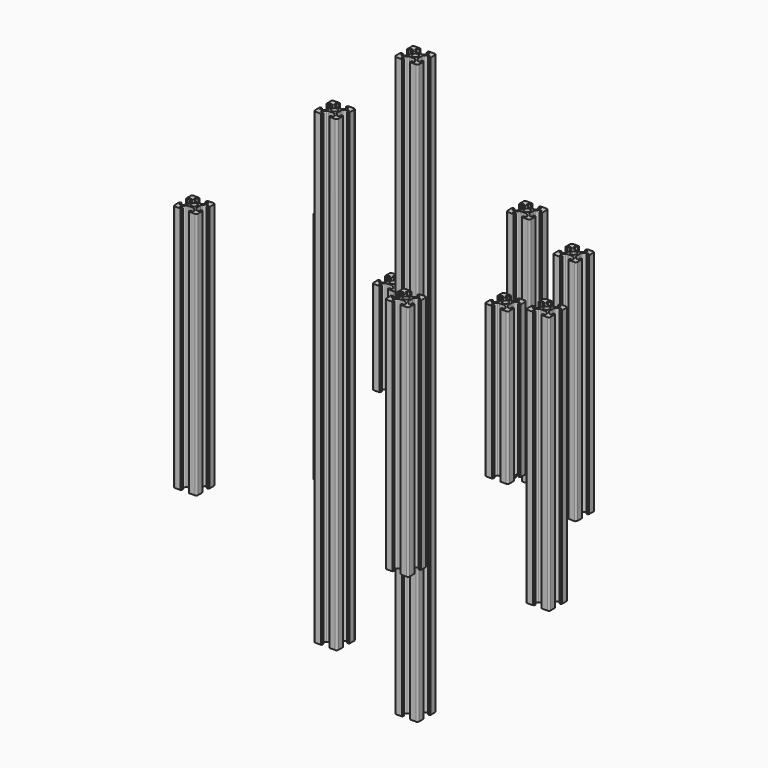
from build123d import *

# Parameters (mm, degrees)
F0_R      = 2.5
F1_DEPTH  = 247.5
F2_R      = 2.5
F3_DEPTH  = 100
F4_R      = 2.5
F5_DEPTH  = 65
F6_R      = 2.5
F7_DEPTH  = 200
F8_R      = 2.5
F9_DEPTH  = 40
F10_R     = 2.5
F11_DEPTH = 110.5
F12_R     = 2.5
F13_DEPTH = 101.5
F14_R     = 2.5
F15_DEPTH = 97.5
F16_R     = 2.5
F17_DEPTH = 106
F18_R     = 2.5
F19_DEPTH = 99.5


with BuildPart() as f1:
    # F0 (on Top) → F1 (new body, symmetric)
    with BuildSketch(Plane.XY):
        with BuildLine():
            Line((-4.724786, -6.718866), (-1.724786, -6.718866))
            ThreePointArc((-1.724786, -6.718866), (-0.664126, -6.279526), (-0.224786, -5.218866))
            Line((-0.224786, -5.218866), (-0.224786, -2.218866))
            Line((-0.224786, -2.218866), (-0.224786, -0.318866))
            Line((-0.224786, -0.318866), (-0.524786, -0.318866))
            ThreePointArc((-0.524786, -0.318866), (-0.666208, -0.260287), (-0.724786, -0.118866))
            Line((-0.724786, -0.118866), (-0.724786, 0.181134))
            Line((-0.724786, 0.181134), (-2.024786, 0.181134))
            Line((-2.024786, 0.181134), (-2.024786, -2.218866))
            Line((-2.024786, -2.218866), (-3.664126, -2.218866))
            Line((-3.664126, -2.218866), (-5.739, -0.143992))
            ThreePointArc((-5.739, -0.143992), (-6.172545, 0.504855), (-6.324786, 1.270222))
            Line((-6.324786, 1.270222), (-6.324786, 5.292047))
            ThreePointArc((-6.324786, 5.292047), (-6.172545, 6.057414), (-5.739, 6.706261))
            Line((-5.739, 6.706261), (-3.664126, 8.781134))
            Line((-3.664126, 8.781134), (-2.024786, 8.781134))
            Line((-2.024786, 8.781134), (-2.024786, 6.381134))
            Line((-2.024786, 6.381134), (-0.724786, 6.381134))
            Line((-0.724786, 6.381134), (-0.724786, 6.681134))
            ThreePointArc((-0.724786, 6.681134), (-0.666208, 6.822556), (-0.524786, 6.881134))
            Line((-0.524786, 6.881134), (-0.224786, 6.881134))
            Line((-0.224786, 6.881134), (-0.224786, 8.781134))
            Line((-0.224786, 8.781134), (-0.224786, 11.781134))
            ThreePointArc((-0.224786, 11.781134), (-0.664126, 12.841794), (-1.724786, 13.281134))
            Line((-1.724786, 13.281134), (-4.724786, 13.281134))
            Line((-4.724786, 13.281134), (-6.124786, 13.281134))
            Line((-6.124786, 13.281134), (-6.624786, 13.281134))
            Line((-6.624786, 13.281134), (-6.624786, 12.981134))
            ThreePointArc((-6.624786, 12.981134), (-6.683365, 12.839713), (-6.824786, 12.781134))
            Line((-6.824786, 12.781134), (-7.124786, 12.781134))
            Line((-7.124786, 12.781134), (-7.124786, 11.481134))
            Line((-7.124786, 11.481134), (-4.724786, 11.481134))
            Line((-4.724786, 11.481134), (-4.724786, 9.841794))
            Line((-4.724786, 9.841794), (-6.79966, 7.766921))
            ThreePointArc((-6.79966, 7.766921), (-7.448507, 7.333375), (-8.213873, 7.181134))
            Line((-8.213873, 7.181134), (-12.235699, 7.181134))
            ThreePointArc((-12.235699, 7.181134), (-13.001066, 7.333375), (-13.649912, 7.766921))
            Line((-13.649912, 7.766921), (-15.724786, 9.841794))
            Line((-15.724786, 9.841794), (-15.724786, 11.481134))
            Line((-15.724786, 11.481134), (-13.324786, 11.481134))
            Line((-13.324786, 11.481134), (-13.324786, 12.781134))
            Line((-13.324786, 12.781134), (-13.624786, 12.781134))
            ThreePointArc((-13.624786, 12.781134), (-13.766208, 12.839713), (-13.824786, 12.981134))
            Line((-13.824786, 12.981134), (-13.824786, 13.281134))
            Line((-13.824786, 13.281134), (-14.324786, 13.281134))
            Line((-14.324786, 13.281134), (-15.724786, 13.281134))
            Line((-15.724786, 13.281134), (-18.724786, 13.281134))
            ThreePointArc((-18.724786, 13.281134), (-19.785446, 12.841794), (-20.224786, 11.781134))
            Line((-20.224786, 11.781134), (-20.224786, 8.781134))
            Line((-20.224786, 8.781134), (-20.224786, 6.881134))
            Line((-20.224786, 6.881134), (-19.924786, 6.881134))
            ThreePointArc((-19.924786, 6.881134), (-19.783365, 6.822556), (-19.724786, 6.681134))
            Line((-19.724786, 6.681134), (-19.724786, 6.381134))
            Line((-19.724786, 6.381134), (-18.424786, 6.381134))
            Line((-18.424786, 6.381134), (-18.424786, 8.781134))
            Line((-18.424786, 8.781134), (-16.785446, 8.781134))
            Line((-16.785446, 8.781134), (-14.710573, 6.706261))
            ThreePointArc((-14.710573, 6.706261), (-14.277027, 6.057414), (-14.124786, 5.292047))
            Line((-14.124786, 5.292047), (-14.124786, 1.270222))
            ThreePointArc((-14.124786, 1.270222), (-14.277027, 0.504855), (-14.710573, -0.143992))
            Line((-14.710573, -0.143992), (-16.785446, -2.218866))
            Line((-16.785446, -2.218866), (-18.424786, -2.218866))
            Line((-18.424786, -2.218866), (-18.424786, 0.181134))
            Line((-18.424786, 0.181134), (-19.724786, 0.181134))
            Line((-19.724786, 0.181134), (-19.724786, -0.118866))
            ThreePointArc((-19.724786, -0.118866), (-19.783365, -0.260287), (-19.924786, -0.318866))
            Line((-19.924786, -0.318866), (-20.224786, -0.318866))
            Line((-20.224786, -0.318866), (-20.224786, -2.218866))
            Line((-20.224786, -2.218866), (-20.224786, -5.218866))
            ThreePointArc((-20.224786, -5.218866), (-19.785446, -6.279526), (-18.724786, -6.718866))
            Line((-18.724786, -6.718866), (-15.724786, -6.718866))
            Line((-15.724786, -6.718866), (-14.324786, -6.718866))
            Line((-14.324786, -6.718866), (-13.824786, -6.718866))
            Line((-13.824786, -6.718866), (-13.824786, -6.418866))
            ThreePointArc((-13.824786, -6.418866), (-13.766208, -6.277444), (-13.624786, -6.218866))
            Line((-13.624786, -6.218866), (-13.324786, -6.218866))
            Line((-13.324786, -6.218866), (-13.324786, -4.918866))
            Line((-13.324786, -4.918866), (-15.724786, -4.918866))
            Line((-15.724786, -4.918866), (-15.724786, -3.279526))
            Line((-15.724786, -3.279526), (-13.649912, -1.204652))
            ThreePointArc((-13.649912, -1.204652), (-13.001066, -0.771107), (-12.235699, -0.618866))
            Line((-12.235699, -0.618866), (-8.213873, -0.618866))
            ThreePointArc((-8.213873, -0.618866), (-7.448507, -0.771107), (-6.79966, -1.204652))
            Line((-6.79966, -1.204652), (-4.724786, -3.279526))
            Line((-4.724786, -3.279526), (-4.724786, -4.918866))
            Line((-4.724786, -4.918866), (-7.124786, -4.918866))
            Line((-7.124786, -4.918866), (-7.124786, -6.218866))
            Line((-7.124786, -6.218866), (-6.824786, -6.218866))
            ThreePointArc((-6.824786, -6.218866), (-6.683365, -6.277444), (-6.624786, -6.418866))
            Line((-6.624786, -6.418866), (-6.624786, -6.718866))
            Line((-6.624786, -6.718866), (-6.124786, -6.718866))
            Line((-6.124786, -6.718866), (-4.724786, -6.718866))
        make_face()
        with Locations((-10.224786, 3.281134)):
            Circle(F0_R, mode=Mode.SUBTRACT)
    extrude(amount=F1_DEPTH, both=True)


with BuildPart() as f3:
    # F2 (on Top) → F3 (new body, symmetric)
    with BuildSketch(Plane.XY):
        with BuildLine():
            Line((-81.960408, 2.570584), (-78.960408, 2.570584))
            ThreePointArc((-78.960408, 2.570584), (-77.899748, 3.009924), (-77.460408, 4.070584))
            Line((-77.460408, 4.070584), (-77.460408, 7.070584))
            Line((-77.460408, 7.070584), (-77.460408, 8.970584))
            Line((-77.460408, 8.970584), (-77.760408, 8.970584))
            ThreePointArc((-77.760408, 8.970584), (-77.90183, 9.029163), (-77.960408, 9.170584))
            Line((-77.960408, 9.170584), (-77.960408, 9.470584))
            Line((-77.960408, 9.470584), (-79.260408, 9.470584))
            Line((-79.260408, 9.470584), (-79.260408, 7.070584))
            Line((-79.260408, 7.070584), (-80.899748, 7.070584))
            Line((-80.899748, 7.070584), (-82.974622, 9.145458))
            ThreePointArc((-82.974622, 9.145458), (-83.408168, 9.794305), (-83.560408, 10.559672))
            Line((-83.560408, 10.559672), (-83.560408, 14.581497))
            ThreePointArc((-83.560408, 14.581497), (-83.408168, 15.346864), (-82.974622, 15.995711))
            Line((-82.974622, 15.995711), (-80.899748, 18.070584))
            Line((-80.899748, 18.070584), (-79.260408, 18.070584))
            Line((-79.260408, 18.070584), (-79.260408, 15.670584))
            Line((-79.260408, 15.670584), (-77.960408, 15.670584))
            Line((-77.960408, 15.670584), (-77.960408, 15.970584))
            ThreePointArc((-77.960408, 15.970584), (-77.90183, 16.112006), (-77.760408, 16.170584))
            Line((-77.760408, 16.170584), (-77.460408, 16.170584))
            Line((-77.460408, 16.170584), (-77.460408, 18.070584))
            Line((-77.460408, 18.070584), (-77.460408, 21.070584))
            ThreePointArc((-77.460408, 21.070584), (-77.899748, 22.131244), (-78.960408, 22.570584))
            Line((-78.960408, 22.570584), (-81.960408, 22.570584))
            Line((-81.960408, 22.570584), (-83.360408, 22.570584))
            Line((-83.360408, 22.570584), (-83.860408, 22.570584))
            Line((-83.860408, 22.570584), (-83.860408, 22.270584))
            ThreePointArc((-83.860408, 22.270584), (-83.918987, 22.129163), (-84.060408, 22.070584))
            Line((-84.060408, 22.070584), (-84.360408, 22.070584))
            Line((-84.360408, 22.070584), (-84.360408, 20.770584))
            Line((-84.360408, 20.770584), (-81.960408, 20.770584))
            Line((-81.960408, 20.770584), (-81.960408, 19.131244))
            Line((-81.960408, 19.131244), (-84.035282, 17.056371))
            ThreePointArc((-84.035282, 17.056371), (-84.684129, 16.622825), (-85.449496, 16.470584))
            Line((-85.449496, 16.470584), (-89.471321, 16.470584))
            ThreePointArc((-89.471321, 16.470584), (-90.236688, 16.622825), (-90.885535, 17.056371))
            Line((-90.885535, 17.056371), (-92.960408, 19.131244))
            Line((-92.960408, 19.131244), (-92.960408, 20.770584))
            Line((-92.960408, 20.770584), (-90.560408, 20.770584))
            Line((-90.560408, 20.770584), (-90.560408, 22.070584))
            Line((-90.560408, 22.070584), (-90.860408, 22.070584))
            ThreePointArc((-90.860408, 22.070584), (-91.00183, 22.129163), (-91.060408, 22.270584))
            Line((-91.060408, 22.270584), (-91.060408, 22.570584))
            Line((-91.060408, 22.570584), (-91.560408, 22.570584))
            Line((-91.560408, 22.570584), (-92.960408, 22.570584))
            Line((-92.960408, 22.570584), (-95.960408, 22.570584))
            ThreePointArc((-95.960408, 22.570584), (-97.021069, 22.131244), (-97.460408, 21.070584))
            Line((-97.460408, 21.070584), (-97.460408, 18.070584))
            Line((-97.460408, 18.070584), (-97.460408, 16.170584))
            Line((-97.460408, 16.170584), (-97.160408, 16.170584))
            ThreePointArc((-97.160408, 16.170584), (-97.018987, 16.112006), (-96.960408, 15.970584))
            Line((-96.960408, 15.970584), (-96.960408, 15.670584))
            Line((-96.960408, 15.670584), (-95.660408, 15.670584))
            Line((-95.660408, 15.670584), (-95.660408, 18.070584))
            Line((-95.660408, 18.070584), (-94.021069, 18.070584))
            Line((-94.021069, 18.070584), (-91.946195, 15.995711))
            ThreePointArc((-91.946195, 15.995711), (-91.512649, 15.346864), (-91.360408, 14.581497))
            Line((-91.360408, 14.581497), (-91.360408, 10.559672))
            ThreePointArc((-91.360408, 10.559672), (-91.512649, 9.794305), (-91.946195, 9.145458))
            Line((-91.946195, 9.145458), (-94.021069, 7.070584))
            Line((-94.021069, 7.070584), (-95.660408, 7.070584))
            Line((-95.660408, 7.070584), (-95.660408, 9.470584))
            Line((-95.660408, 9.470584), (-96.960408, 9.470584))
            Line((-96.960408, 9.470584), (-96.960408, 9.170584))
            ThreePointArc((-96.960408, 9.170584), (-97.018987, 9.029163), (-97.160408, 8.970584))
            Line((-97.160408, 8.970584), (-97.460408, 8.970584))
            Line((-97.460408, 8.970584), (-97.460408, 7.070584))
            Line((-97.460408, 7.070584), (-97.460408, 4.070584))
            ThreePointArc((-97.460408, 4.070584), (-97.021069, 3.009924), (-95.960408, 2.570584))
            Line((-95.960408, 2.570584), (-92.960408, 2.570584))
            Line((-92.960408, 2.570584), (-91.560408, 2.570584))
            Line((-91.560408, 2.570584), (-91.060408, 2.570584))
            Line((-91.060408, 2.570584), (-91.060408, 2.870584))
            ThreePointArc((-91.060408, 2.870584), (-91.00183, 3.012006), (-90.860408, 3.070584))
            Line((-90.860408, 3.070584), (-90.560408, 3.070584))
            Line((-90.560408, 3.070584), (-90.560408, 4.370584))
            Line((-90.560408, 4.370584), (-92.960408, 4.370584))
            Line((-92.960408, 4.370584), (-92.960408, 6.009924))
            Line((-92.960408, 6.009924), (-90.885535, 8.084798))
            ThreePointArc((-90.885535, 8.084798), (-90.236688, 8.518343), (-89.471321, 8.670584))
            Line((-89.471321, 8.670584), (-85.449496, 8.670584))
            ThreePointArc((-85.449496, 8.670584), (-84.684129, 8.518343), (-84.035282, 8.084798))
            Line((-84.035282, 8.084798), (-81.960408, 6.009924))
            Line((-81.960408, 6.009924), (-81.960408, 4.370584))
            Line((-81.960408, 4.370584), (-84.360408, 4.370584))
            Line((-84.360408, 4.370584), (-84.360408, 3.070584))
            Line((-84.360408, 3.070584), (-84.060408, 3.070584))
            ThreePointArc((-84.060408, 3.070584), (-83.918987, 3.012006), (-83.860408, 2.870584))
            Line((-83.860408, 2.870584), (-83.860408, 2.570584))
            Line((-83.860408, 2.570584), (-83.360408, 2.570584))
            Line((-83.360408, 2.570584), (-81.960408, 2.570584))
        make_face()
        with Locations((-87.460408, 12.570584)):
            Circle(F2_R, mode=Mode.SUBTRACT)
    extrude(amount=F3_DEPTH, both=True)


with BuildPart() as f5:
    # F4 (on Top) → F5 (new body, symmetric)
    with BuildSketch(Plane.XY):
        with BuildLine():
            Line((46.328743, 25.884931), (49.328743, 25.884931))
            ThreePointArc((49.328743, 25.884931), (50.389404, 26.324271), (50.828743, 27.384931))
            Line((50.828743, 27.384931), (50.828743, 30.384931))
            Line((50.828743, 30.384931), (50.828743, 32.284931))
            Line((50.828743, 32.284931), (50.528743, 32.284931))
            ThreePointArc((50.528743, 32.284931), (50.387322, 32.343509), (50.328743, 32.484931))
            Line((50.328743, 32.484931), (50.328743, 32.784931))
            Line((50.328743, 32.784931), (49.028743, 32.784931))
            Line((49.028743, 32.784931), (49.028743, 30.384931))
            Line((49.028743, 30.384931), (47.389404, 30.384931))
            Line((47.389404, 30.384931), (45.31453, 32.459805))
            ThreePointArc((45.31453, 32.459805), (44.880984, 33.108651), (44.728743, 33.874018))
            Line((44.728743, 33.874018), (44.728743, 37.895844))
            ThreePointArc((44.728743, 37.895844), (44.880984, 38.66121), (45.31453, 39.310057))
            Line((45.31453, 39.310057), (47.389404, 41.384931))
            Line((47.389404, 41.384931), (49.028743, 41.384931))
            Line((49.028743, 41.384931), (49.028743, 38.984931))
            Line((49.028743, 38.984931), (50.328743, 38.984931))
            Line((50.328743, 38.984931), (50.328743, 39.284931))
            ThreePointArc((50.328743, 39.284931), (50.387322, 39.426352), (50.528743, 39.484931))
            Line((50.528743, 39.484931), (50.828743, 39.484931))
            Line((50.828743, 39.484931), (50.828743, 41.384931))
            Line((50.828743, 41.384931), (50.828743, 44.384931))
            ThreePointArc((50.828743, 44.384931), (50.389404, 45.445591), (49.328743, 45.884931))
            Line((49.328743, 45.884931), (46.328743, 45.884931))
            Line((46.328743, 45.884931), (44.928743, 45.884931))
            Line((44.928743, 45.884931), (44.428743, 45.884931))
            Line((44.428743, 45.884931), (44.428743, 45.584931))
            ThreePointArc((44.428743, 45.584931), (44.370165, 45.443509), (44.228743, 45.384931))
            Line((44.228743, 45.384931), (43.928743, 45.384931))
            Line((43.928743, 45.384931), (43.928743, 44.084931))
            Line((43.928743, 44.084931), (46.328743, 44.084931))
            Line((46.328743, 44.084931), (46.328743, 42.445591))
            Line((46.328743, 42.445591), (44.25387, 40.370717))
            ThreePointArc((44.25387, 40.370717), (43.605023, 39.937172), (42.839656, 39.784931))
            Line((42.839656, 39.784931), (38.817831, 39.784931))
            ThreePointArc((38.817831, 39.784931), (38.052464, 39.937172), (37.403617, 40.370717))
            Line((37.403617, 40.370717), (35.328743, 42.445591))
            Line((35.328743, 42.445591), (35.328743, 44.084931))
            Line((35.328743, 44.084931), (37.728743, 44.084931))
            Line((37.728743, 44.084931), (37.728743, 45.384931))
            Line((37.728743, 45.384931), (37.428743, 45.384931))
            ThreePointArc((37.428743, 45.384931), (37.287322, 45.443509), (37.228743, 45.584931))
            Line((37.228743, 45.584931), (37.228743, 45.884931))
            Line((37.228743, 45.884931), (36.728743, 45.884931))
            Line((36.728743, 45.884931), (35.328743, 45.884931))
            Line((35.328743, 45.884931), (32.328743, 45.884931))
            ThreePointArc((32.328743, 45.884931), (31.268083, 45.445591), (30.828743, 44.384931))
            Line((30.828743, 44.384931), (30.828743, 41.384931))
            Line((30.828743, 41.384931), (30.828743, 39.484931))
            Line((30.828743, 39.484931), (31.128743, 39.484931))
            ThreePointArc((31.128743, 39.484931), (31.270165, 39.426352), (31.328743, 39.284931))
            Line((31.328743, 39.284931), (31.328743, 38.984931))
            Line((31.328743, 38.984931), (32.628743, 38.984931))
            Line((32.628743, 38.984931), (32.628743, 41.384931))
            Line((32.628743, 41.384931), (34.268083, 41.384931))
            Line((34.268083, 41.384931), (36.342957, 39.310057))
            ThreePointArc((36.342957, 39.310057), (36.776503, 38.66121), (36.928743, 37.895844))
            Line((36.928743, 37.895844), (36.928743, 33.874018))
            ThreePointArc((36.928743, 33.874018), (36.776503, 33.108651), (36.342957, 32.459805))
            Line((36.342957, 32.459805), (34.268083, 30.384931))
            Line((34.268083, 30.384931), (32.628743, 30.384931))
            Line((32.628743, 30.384931), (32.628743, 32.784931))
            Line((32.628743, 32.784931), (31.328743, 32.784931))
            Line((31.328743, 32.784931), (31.328743, 32.484931))
            ThreePointArc((31.328743, 32.484931), (31.270165, 32.343509), (31.128743, 32.284931))
            Line((31.128743, 32.284931), (30.828743, 32.284931))
            Line((30.828743, 32.284931), (30.828743, 30.384931))
            Line((30.828743, 30.384931), (30.828743, 27.384931))
            ThreePointArc((30.828743, 27.384931), (31.268083, 26.324271), (32.328743, 25.884931))
            Line((32.328743, 25.884931), (35.328743, 25.884931))
            Line((35.328743, 25.884931), (36.728743, 25.884931))
            Line((36.728743, 25.884931), (37.228743, 25.884931))
            Line((37.228743, 25.884931), (37.228743, 26.184931))
            ThreePointArc((37.228743, 26.184931), (37.287322, 26.326352), (37.428743, 26.384931))
            Line((37.428743, 26.384931), (37.728743, 26.384931))
            Line((37.728743, 26.384931), (37.728743, 27.684931))
            Line((37.728743, 27.684931), (35.328743, 27.684931))
            Line((35.328743, 27.684931), (35.328743, 29.324271))
            Line((35.328743, 29.324271), (37.403617, 31.399144))
            ThreePointArc((37.403617, 31.399144), (38.052464, 31.83269), (38.817831, 31.984931))
            Line((38.817831, 31.984931), (42.839656, 31.984931))
            ThreePointArc((42.839656, 31.984931), (43.605023, 31.83269), (44.25387, 31.399144))
            Line((44.25387, 31.399144), (46.328743, 29.324271))
            Line((46.328743, 29.324271), (46.328743, 27.684931))
            Line((46.328743, 27.684931), (43.928743, 27.684931))
            Line((43.928743, 27.684931), (43.928743, 26.384931))
            Line((43.928743, 26.384931), (44.228743, 26.384931))
            ThreePointArc((44.228743, 26.384931), (44.370165, 26.326352), (44.428743, 26.184931))
            Line((44.428743, 26.184931), (44.428743, 25.884931))
            Line((44.428743, 25.884931), (44.928743, 25.884931))
            Line((44.928743, 25.884931), (46.328743, 25.884931))
        make_face()
        with Locations((40.828743, 35.884931)):
            Circle(F4_R, mode=Mode.SUBTRACT)
    extrude(amount=F5_DEPTH, both=True)


with BuildPart() as f7:
    # F6 (on Top) → F7 (new body, symmetric)
    with BuildSketch(Plane.XY):
        with BuildLine():
            Line((-54.565678, -30.809163), (-51.565678, -30.809163))
            ThreePointArc((-51.565678, -30.809163), (-50.505018, -30.369823), (-50.065678, -29.309163))
            Line((-50.065678, -29.309163), (-50.065678, -26.309163))
            Line((-50.065678, -26.309163), (-50.065678, -24.409163))
            Line((-50.065678, -24.409163), (-50.365678, -24.409163))
            ThreePointArc((-50.365678, -24.409163), (-50.507099, -24.350585), (-50.565678, -24.209163))
            Line((-50.565678, -24.209163), (-50.565678, -23.909163))
            Line((-50.565678, -23.909163), (-51.865678, -23.909163))
            Line((-51.865678, -23.909163), (-51.865678, -26.309163))
            Line((-51.865678, -26.309163), (-53.505018, -26.309163))
            Line((-53.505018, -26.309163), (-55.579891, -24.23429))
            ThreePointArc((-55.579891, -24.23429), (-56.013437, -23.585443), (-56.165678, -22.820076))
            Line((-56.165678, -22.820076), (-56.165678, -18.798251))
            ThreePointArc((-56.165678, -18.798251), (-56.013437, -18.032884), (-55.579891, -17.384037))
            Line((-55.579891, -17.384037), (-53.505018, -15.309163))
            Line((-53.505018, -15.309163), (-51.865678, -15.309163))
            Line((-51.865678, -15.309163), (-51.865678, -17.709163))
            Line((-51.865678, -17.709163), (-50.565678, -17.709163))
            Line((-50.565678, -17.709163), (-50.565678, -17.409163))
            ThreePointArc((-50.565678, -17.409163), (-50.507099, -17.267742), (-50.365678, -17.209163))
            Line((-50.365678, -17.209163), (-50.065678, -17.209163))
            Line((-50.065678, -17.209163), (-50.065678, -15.309163))
            Line((-50.065678, -15.309163), (-50.065678, -12.309163))
            ThreePointArc((-50.065678, -12.309163), (-50.505018, -11.248503), (-51.565678, -10.809163))
            Line((-51.565678, -10.809163), (-54.565678, -10.809163))
            Line((-54.565678, -10.809163), (-55.965678, -10.809163))
            Line((-55.965678, -10.809163), (-56.465678, -10.809163))
            Line((-56.465678, -10.809163), (-56.465678, -11.109163))
            ThreePointArc((-56.465678, -11.109163), (-56.524257, -11.250585), (-56.665678, -11.309163))
            Line((-56.665678, -11.309163), (-56.965678, -11.309163))
            Line((-56.965678, -11.309163), (-56.965678, -12.609163))
            Line((-56.965678, -12.609163), (-54.565678, -12.609163))
            Line((-54.565678, -12.609163), (-54.565678, -14.248503))
            Line((-54.565678, -14.248503), (-56.640552, -16.323377))
            ThreePointArc((-56.640552, -16.323377), (-57.289398, -16.756922), (-58.054765, -16.909163))
            Line((-58.054765, -16.909163), (-62.076591, -16.909163))
            ThreePointArc((-62.076591, -16.909163), (-62.841957, -16.756922), (-63.490804, -16.323377))
            Line((-63.490804, -16.323377), (-65.565678, -14.248503))
            Line((-65.565678, -14.248503), (-65.565678, -12.609163))
            Line((-65.565678, -12.609163), (-63.165678, -12.609163))
            Line((-63.165678, -12.609163), (-63.165678, -11.309163))
            Line((-63.165678, -11.309163), (-63.465678, -11.309163))
            ThreePointArc((-63.465678, -11.309163), (-63.607099, -11.250585), (-63.665678, -11.109163))
            Line((-63.665678, -11.109163), (-63.665678, -10.809163))
            Line((-63.665678, -10.809163), (-64.165678, -10.809163))
            Line((-64.165678, -10.809163), (-65.565678, -10.809163))
            Line((-65.565678, -10.809163), (-68.565678, -10.809163))
            ThreePointArc((-68.565678, -10.809163), (-69.626338, -11.248503), (-70.065678, -12.309163))
            Line((-70.065678, -12.309163), (-70.065678, -15.309163))
            Line((-70.065678, -15.309163), (-70.065678, -17.209163))
            Line((-70.065678, -17.209163), (-69.765678, -17.209163))
            ThreePointArc((-69.765678, -17.209163), (-69.624257, -17.267742), (-69.565678, -17.409163))
            Line((-69.565678, -17.409163), (-69.565678, -17.709163))
            Line((-69.565678, -17.709163), (-68.265678, -17.709163))
            Line((-68.265678, -17.709163), (-68.265678, -15.309163))
            Line((-68.265678, -15.309163), (-66.626338, -15.309163))
            Line((-66.626338, -15.309163), (-64.551464, -17.384037))
            ThreePointArc((-64.551464, -17.384037), (-64.117919, -18.032884), (-63.965678, -18.798251))
            Line((-63.965678, -18.798251), (-63.965678, -22.820076))
            ThreePointArc((-63.965678, -22.820076), (-64.117919, -23.585443), (-64.551464, -24.23429))
            Line((-64.551464, -24.23429), (-66.626338, -26.309163))
            Line((-66.626338, -26.309163), (-68.265678, -26.309163))
            Line((-68.265678, -26.309163), (-68.265678, -23.909163))
            Line((-68.265678, -23.909163), (-69.565678, -23.909163))
            Line((-69.565678, -23.909163), (-69.565678, -24.209163))
            ThreePointArc((-69.565678, -24.209163), (-69.624257, -24.350585), (-69.765678, -24.409163))
            Line((-69.765678, -24.409163), (-70.065678, -24.409163))
            Line((-70.065678, -24.409163), (-70.065678, -26.309163))
            Line((-70.065678, -26.309163), (-70.065678, -29.309163))
            ThreePointArc((-70.065678, -29.309163), (-69.626338, -30.369823), (-68.565678, -30.809163))
            Line((-68.565678, -30.809163), (-65.565678, -30.809163))
            Line((-65.565678, -30.809163), (-64.165678, -30.809163))
            Line((-64.165678, -30.809163), (-63.665678, -30.809163))
            Line((-63.665678, -30.809163), (-63.665678, -30.509163))
            ThreePointArc((-63.665678, -30.509163), (-63.607099, -30.367742), (-63.465678, -30.309163))
            Line((-63.465678, -30.309163), (-63.165678, -30.309163))
            Line((-63.165678, -30.309163), (-63.165678, -29.009163))
            Line((-63.165678, -29.009163), (-65.565678, -29.009163))
            Line((-65.565678, -29.009163), (-65.565678, -27.369823))
            Line((-65.565678, -27.369823), (-63.490804, -25.29495))
            ThreePointArc((-63.490804, -25.29495), (-62.841957, -24.861404), (-62.076591, -24.709163))
            Line((-62.076591, -24.709163), (-58.054765, -24.709163))
            ThreePointArc((-58.054765, -24.709163), (-57.289398, -24.861404), (-56.640552, -25.29495))
            Line((-56.640552, -25.29495), (-54.565678, -27.369823))
            Line((-54.565678, -27.369823), (-54.565678, -29.009163))
            Line((-54.565678, -29.009163), (-56.965678, -29.009163))
            Line((-56.965678, -29.009163), (-56.965678, -30.309163))
            Line((-56.965678, -30.309163), (-56.665678, -30.309163))
            ThreePointArc((-56.665678, -30.309163), (-56.524257, -30.367742), (-56.465678, -30.509163))
            Line((-56.465678, -30.509163), (-56.465678, -30.809163))
            Line((-56.465678, -30.809163), (-55.965678, -30.809163))
            Line((-55.965678, -30.809163), (-54.565678, -30.809163))
        make_face()
        with Locations((-60.065678, -20.809163)):
            Circle(F6_R, mode=Mode.SUBTRACT)
    extrude(amount=F7_DEPTH, both=True)


with BuildPart() as f9:
    # F8 (on Top) → F9 (new body, symmetric)
    with BuildSketch(Plane.XY):
        with BuildLine():
            Line((-60.259006, 38.880032), (-57.259006, 38.880032))
            ThreePointArc((-57.259006, 38.880032), (-56.198345, 39.319372), (-55.759006, 40.380032))
            Line((-55.759006, 40.380032), (-55.759006, 43.380032))
            Line((-55.759006, 43.380032), (-55.759006, 45.280032))
            Line((-55.759006, 45.280032), (-56.059006, 45.280032))
            ThreePointArc((-56.059006, 45.280032), (-56.200427, 45.338611), (-56.259006, 45.480032))
            Line((-56.259006, 45.480032), (-56.259006, 45.780032))
            Line((-56.259006, 45.780032), (-57.559006, 45.780032))
            Line((-57.559006, 45.780032), (-57.559006, 43.380032))
            Line((-57.559006, 43.380032), (-59.198345, 43.380032))
            Line((-59.198345, 43.380032), (-61.273219, 45.454906))
            ThreePointArc((-61.273219, 45.454906), (-61.706765, 46.103753), (-61.859006, 46.86912))
            Line((-61.859006, 46.86912), (-61.859006, 50.890945))
            ThreePointArc((-61.859006, 50.890945), (-61.706765, 51.656312), (-61.273219, 52.305159))
            Line((-61.273219, 52.305159), (-59.198345, 54.380032))
            Line((-59.198345, 54.380032), (-57.559006, 54.380032))
            Line((-57.559006, 54.380032), (-57.559006, 51.980032))
            Line((-57.559006, 51.980032), (-56.259006, 51.980032))
            Line((-56.259006, 51.980032), (-56.259006, 52.280032))
            ThreePointArc((-56.259006, 52.280032), (-56.200427, 52.421454), (-56.059006, 52.480032))
            Line((-56.059006, 52.480032), (-55.759006, 52.480032))
            Line((-55.759006, 52.480032), (-55.759006, 54.380032))
            Line((-55.759006, 54.380032), (-55.759006, 57.380032))
            ThreePointArc((-55.759006, 57.380032), (-56.198345, 58.440693), (-57.259006, 58.880032))
            Line((-57.259006, 58.880032), (-60.259006, 58.880032))
            Line((-60.259006, 58.880032), (-61.659006, 58.880032))
            Line((-61.659006, 58.880032), (-62.159006, 58.880032))
            Line((-62.159006, 58.880032), (-62.159006, 58.580032))
            ThreePointArc((-62.159006, 58.580032), (-62.217584, 58.438611), (-62.359006, 58.380032))
            Line((-62.359006, 58.380032), (-62.659006, 58.380032))
            Line((-62.659006, 58.380032), (-62.659006, 57.080032))
            Line((-62.659006, 57.080032), (-60.259006, 57.080032))
            Line((-60.259006, 57.080032), (-60.259006, 55.440693))
            Line((-60.259006, 55.440693), (-62.333879, 53.365819))
            ThreePointArc((-62.333879, 53.365819), (-62.982726, 52.932273), (-63.748093, 52.780032))
            Line((-63.748093, 52.780032), (-67.769918, 52.780032))
            ThreePointArc((-67.769918, 52.780032), (-68.535285, 52.932273), (-69.184132, 53.365819))
            Line((-69.184132, 53.365819), (-71.259006, 55.440693))
            Line((-71.259006, 55.440693), (-71.259006, 57.080032))
            Line((-71.259006, 57.080032), (-68.859006, 57.080032))
            Line((-68.859006, 57.080032), (-68.859006, 58.380032))
            Line((-68.859006, 58.380032), (-69.159006, 58.380032))
            ThreePointArc((-69.159006, 58.380032), (-69.300427, 58.438611), (-69.359006, 58.580032))
            Line((-69.359006, 58.580032), (-69.359006, 58.880032))
            Line((-69.359006, 58.880032), (-69.859006, 58.880032))
            Line((-69.859006, 58.880032), (-71.259006, 58.880032))
            Line((-71.259006, 58.880032), (-74.259006, 58.880032))
            ThreePointArc((-74.259006, 58.880032), (-75.319666, 58.440693), (-75.759006, 57.380032))
            Line((-75.759006, 57.380032), (-75.759006, 54.380032))
            Line((-75.759006, 54.380032), (-75.759006, 52.480032))
            Line((-75.759006, 52.480032), (-75.459006, 52.480032))
            ThreePointArc((-75.459006, 52.480032), (-75.317584, 52.421454), (-75.259006, 52.280032))
            Line((-75.259006, 52.280032), (-75.259006, 51.980032))
            Line((-75.259006, 51.980032), (-73.959006, 51.980032))
            Line((-73.959006, 51.980032), (-73.959006, 54.380032))
            Line((-73.959006, 54.380032), (-72.319666, 54.380032))
            Line((-72.319666, 54.380032), (-70.244792, 52.305159))
            ThreePointArc((-70.244792, 52.305159), (-69.811246, 51.656312), (-69.659006, 50.890945))
            Line((-69.659006, 50.890945), (-69.659006, 46.86912))
            ThreePointArc((-69.659006, 46.86912), (-69.811246, 46.103753), (-70.244792, 45.454906))
            Line((-70.244792, 45.454906), (-72.319666, 43.380032))
            Line((-72.319666, 43.380032), (-73.959006, 43.380032))
            Line((-73.959006, 43.380032), (-73.959006, 45.780032))
            Line((-73.959006, 45.780032), (-75.259006, 45.780032))
            Line((-75.259006, 45.780032), (-75.259006, 45.480032))
            ThreePointArc((-75.259006, 45.480032), (-75.317584, 45.338611), (-75.459006, 45.280032))
            Line((-75.459006, 45.280032), (-75.759006, 45.280032))
            Line((-75.759006, 45.280032), (-75.759006, 43.380032))
            Line((-75.759006, 43.380032), (-75.759006, 40.380032))
            ThreePointArc((-75.759006, 40.380032), (-75.319666, 39.319372), (-74.259006, 38.880032))
            Line((-74.259006, 38.880032), (-71.259006, 38.880032))
            Line((-71.259006, 38.880032), (-69.859006, 38.880032))
            Line((-69.859006, 38.880032), (-69.359006, 38.880032))
            Line((-69.359006, 38.880032), (-69.359006, 39.180032))
            ThreePointArc((-69.359006, 39.180032), (-69.300427, 39.321454), (-69.159006, 39.380032))
            Line((-69.159006, 39.380032), (-68.859006, 39.380032))
            Line((-68.859006, 39.380032), (-68.859006, 40.680032))
            Line((-68.859006, 40.680032), (-71.259006, 40.680032))
            Line((-71.259006, 40.680032), (-71.259006, 42.319372))
            Line((-71.259006, 42.319372), (-69.184132, 44.394246))
            ThreePointArc((-69.184132, 44.394246), (-68.535285, 44.827791), (-67.769918, 44.980032))
            Line((-67.769918, 44.980032), (-63.748093, 44.980032))
            ThreePointArc((-63.748093, 44.980032), (-62.982726, 44.827791), (-62.333879, 44.394246))
            Line((-62.333879, 44.394246), (-60.259006, 42.319372))
            Line((-60.259006, 42.319372), (-60.259006, 40.680032))
            Line((-60.259006, 40.680032), (-62.659006, 40.680032))
            Line((-62.659006, 40.680032), (-62.659006, 39.380032))
            Line((-62.659006, 39.380032), (-62.359006, 39.380032))
            ThreePointArc((-62.359006, 39.380032), (-62.217584, 39.321454), (-62.159006, 39.180032))
            Line((-62.159006, 39.180032), (-62.159006, 38.880032))
            Line((-62.159006, 38.880032), (-61.659006, 38.880032))
            Line((-61.659006, 38.880032), (-60.259006, 38.880032))
        make_face()
        with Locations((-65.759006, 48.880032)):
            Circle(F8_R, mode=Mode.SUBTRACT)
    extrude(amount=F9_DEPTH, both=True)


with BuildPart() as f11:
    # F10 (on Top) → F11 (new body, symmetric)
    with BuildSketch(Plane.XY):
        with BuildLine():
            Line((127.827758, -31.929623), (130.827758, -31.929623))
            ThreePointArc((130.827758, -31.929623), (131.888418, -31.490283), (132.327758, -30.429623))
            Line((132.327758, -30.429623), (132.327758, -27.429623))
            Line((132.327758, -27.429623), (132.327758, -25.529623))
            Line((132.327758, -25.529623), (132.027758, -25.529623))
            ThreePointArc((132.027758, -25.529623), (131.886336, -25.471044), (131.827758, -25.329623))
            Line((131.827758, -25.329623), (131.827758, -25.029623))
            Line((131.827758, -25.029623), (130.527758, -25.029623))
            Line((130.527758, -25.029623), (130.527758, -27.429623))
            Line((130.527758, -27.429623), (128.888418, -27.429623))
            Line((128.888418, -27.429623), (126.813544, -25.354749))
            ThreePointArc((126.813544, -25.354749), (126.379998, -24.705902), (126.227758, -23.940535))
            Line((126.227758, -23.940535), (126.227758, -19.91871))
            ThreePointArc((126.227758, -19.91871), (126.379998, -19.153343), (126.813544, -18.504496))
            Line((126.813544, -18.504496), (128.888418, -16.429623))
            Line((128.888418, -16.429623), (130.527758, -16.429623))
            Line((130.527758, -16.429623), (130.527758, -18.829623))
            Line((130.527758, -18.829623), (131.827758, -18.829623))
            Line((131.827758, -18.829623), (131.827758, -18.529623))
            ThreePointArc((131.827758, -18.529623), (131.886336, -18.388201), (132.027758, -18.329623))
            Line((132.027758, -18.329623), (132.327758, -18.329623))
            Line((132.327758, -18.329623), (132.327758, -16.429623))
            Line((132.327758, -16.429623), (132.327758, -13.429623))
            ThreePointArc((132.327758, -13.429623), (131.888418, -12.368962), (130.827758, -11.929623))
            Line((130.827758, -11.929623), (127.827758, -11.929623))
            Line((127.827758, -11.929623), (126.427758, -11.929623))
            Line((126.427758, -11.929623), (125.927758, -11.929623))
            Line((125.927758, -11.929623), (125.927758, -12.229623))
            ThreePointArc((125.927758, -12.229623), (125.869179, -12.371044), (125.727758, -12.429623))
            Line((125.727758, -12.429623), (125.427758, -12.429623))
            Line((125.427758, -12.429623), (125.427758, -13.729623))
            Line((125.427758, -13.729623), (127.827758, -13.729623))
            Line((127.827758, -13.729623), (127.827758, -15.368962))
            Line((127.827758, -15.368962), (125.752884, -17.443836))
            ThreePointArc((125.752884, -17.443836), (125.104037, -17.877382), (124.33867, -18.029623))
            Line((124.33867, -18.029623), (120.316845, -18.029623))
            ThreePointArc((120.316845, -18.029623), (119.551478, -17.877382), (118.902631, -17.443836))
            Line((118.902631, -17.443836), (116.827758, -15.368962))
            Line((116.827758, -15.368962), (116.827758, -13.729623))
            Line((116.827758, -13.729623), (119.227758, -13.729623))
            Line((119.227758, -13.729623), (119.227758, -12.429623))
            Line((119.227758, -12.429623), (118.927758, -12.429623))
            ThreePointArc((118.927758, -12.429623), (118.786336, -12.371044), (118.727758, -12.229623))
            Line((118.727758, -12.229623), (118.727758, -11.929623))
            Line((118.727758, -11.929623), (118.227758, -11.929623))
            Line((118.227758, -11.929623), (116.827758, -11.929623))
            Line((116.827758, -11.929623), (113.827758, -11.929623))
            ThreePointArc((113.827758, -11.929623), (112.767097, -12.368962), (112.327758, -13.429623))
            Line((112.327758, -13.429623), (112.327758, -16.429623))
            Line((112.327758, -16.429623), (112.327758, -18.329623))
            Line((112.327758, -18.329623), (112.627758, -18.329623))
            ThreePointArc((112.627758, -18.329623), (112.769179, -18.388201), (112.827758, -18.529623))
            Line((112.827758, -18.529623), (112.827758, -18.829623))
            Line((112.827758, -18.829623), (114.127758, -18.829623))
            Line((114.127758, -18.829623), (114.127758, -16.429623))
            Line((114.127758, -16.429623), (115.767097, -16.429623))
            Line((115.767097, -16.429623), (117.841971, -18.504496))
            ThreePointArc((117.841971, -18.504496), (118.275517, -19.153343), (118.427758, -19.91871))
            Line((118.427758, -19.91871), (118.427758, -23.940535))
            ThreePointArc((118.427758, -23.940535), (118.275517, -24.705902), (117.841971, -25.354749))
            Line((117.841971, -25.354749), (115.767097, -27.429623))
            Line((115.767097, -27.429623), (114.127758, -27.429623))
            Line((114.127758, -27.429623), (114.127758, -25.029623))
            Line((114.127758, -25.029623), (112.827758, -25.029623))
            Line((112.827758, -25.029623), (112.827758, -25.329623))
            ThreePointArc((112.827758, -25.329623), (112.769179, -25.471044), (112.627758, -25.529623))
            Line((112.627758, -25.529623), (112.327758, -25.529623))
            Line((112.327758, -25.529623), (112.327758, -27.429623))
            Line((112.327758, -27.429623), (112.327758, -30.429623))
            ThreePointArc((112.327758, -30.429623), (112.767097, -31.490283), (113.827758, -31.929623))
            Line((113.827758, -31.929623), (116.827758, -31.929623))
            Line((116.827758, -31.929623), (118.227758, -31.929623))
            Line((118.227758, -31.929623), (118.727758, -31.929623))
            Line((118.727758, -31.929623), (118.727758, -31.629623))
            ThreePointArc((118.727758, -31.629623), (118.786336, -31.488201), (118.927758, -31.429623))
            Line((118.927758, -31.429623), (119.227758, -31.429623))
            Line((119.227758, -31.429623), (119.227758, -30.129623))
            Line((119.227758, -30.129623), (116.827758, -30.129623))
            Line((116.827758, -30.129623), (116.827758, -28.490283))
            Line((116.827758, -28.490283), (118.902631, -26.415409))
            ThreePointArc((118.902631, -26.415409), (119.551478, -25.981863), (120.316845, -25.829623))
            Line((120.316845, -25.829623), (124.33867, -25.829623))
            ThreePointArc((124.33867, -25.829623), (125.104037, -25.981863), (125.752884, -26.415409))
            Line((125.752884, -26.415409), (127.827758, -28.490283))
            Line((127.827758, -28.490283), (127.827758, -30.129623))
            Line((127.827758, -30.129623), (125.427758, -30.129623))
            Line((125.427758, -30.129623), (125.427758, -31.429623))
            Line((125.427758, -31.429623), (125.727758, -31.429623))
            ThreePointArc((125.727758, -31.429623), (125.869179, -31.488201), (125.927758, -31.629623))
            Line((125.927758, -31.629623), (125.927758, -31.929623))
            Line((125.927758, -31.929623), (126.427758, -31.929623))
            Line((126.427758, -31.929623), (127.827758, -31.929623))
        make_face()
        with Locations((122.327758, -21.929623)):
            Circle(F10_R, mode=Mode.SUBTRACT)
    extrude(amount=F11_DEPTH, both=True)


with BuildPart() as f13:
    # F12 (on Top) → F13 (new body, symmetric)
    with BuildSketch(Plane.XY):
        with BuildLine():
            Line((34.440489, -65.752595), (37.440489, -65.752595))
            ThreePointArc((37.440489, -65.752595), (38.501149, -65.313255), (38.940489, -64.252595))
            Line((38.940489, -64.252595), (38.940489, -61.252595))
            Line((38.940489, -61.252595), (38.940489, -59.352595))
            Line((38.940489, -59.352595), (38.640489, -59.352595))
            ThreePointArc((38.640489, -59.352595), (38.499068, -59.294016), (38.440489, -59.152595))
            Line((38.440489, -59.152595), (38.440489, -58.852595))
            Line((38.440489, -58.852595), (37.140489, -58.852595))
            Line((37.140489, -58.852595), (37.140489, -61.252595))
            Line((37.140489, -61.252595), (35.501149, -61.252595))
            Line((35.501149, -61.252595), (33.426275, -59.177721))
            ThreePointArc((33.426275, -59.177721), (32.99273, -58.528874), (32.840489, -57.763508))
            Line((32.840489, -57.763508), (32.840489, -53.741682))
            ThreePointArc((32.840489, -53.741682), (32.99273, -52.976315), (33.426275, -52.327469))
            Line((33.426275, -52.327469), (35.501149, -50.252595))
            Line((35.501149, -50.252595), (37.140489, -50.252595))
            Line((37.140489, -50.252595), (37.140489, -52.652595))
            Line((37.140489, -52.652595), (38.440489, -52.652595))
            Line((38.440489, -52.652595), (38.440489, -52.352595))
            ThreePointArc((38.440489, -52.352595), (38.499068, -52.211173), (38.640489, -52.152595))
            Line((38.640489, -52.152595), (38.940489, -52.152595))
            Line((38.940489, -52.152595), (38.940489, -50.252595))
            Line((38.940489, -50.252595), (38.940489, -47.252595))
            ThreePointArc((38.940489, -47.252595), (38.501149, -46.191935), (37.440489, -45.752595))
            Line((37.440489, -45.752595), (34.440489, -45.752595))
            Line((34.440489, -45.752595), (33.040489, -45.752595))
            Line((33.040489, -45.752595), (32.540489, -45.752595))
            Line((32.540489, -45.752595), (32.540489, -46.052595))
            ThreePointArc((32.540489, -46.052595), (32.48191, -46.194016), (32.340489, -46.252595))
            Line((32.340489, -46.252595), (32.040489, -46.252595))
            Line((32.040489, -46.252595), (32.040489, -47.552595))
            Line((32.040489, -47.552595), (34.440489, -47.552595))
            Line((34.440489, -47.552595), (34.440489, -49.191935))
            Line((34.440489, -49.191935), (32.365615, -51.266808))
            ThreePointArc((32.365615, -51.266808), (31.716769, -51.700354), (30.951402, -51.852595))
            Line((30.951402, -51.852595), (26.929576, -51.852595))
            ThreePointArc((26.929576, -51.852595), (26.164209, -51.700354), (25.515363, -51.266808))
            Line((25.515363, -51.266808), (23.440489, -49.191935))
            Line((23.440489, -49.191935), (23.440489, -47.552595))
            Line((23.440489, -47.552595), (25.840489, -47.552595))
            Line((25.840489, -47.552595), (25.840489, -46.252595))
            Line((25.840489, -46.252595), (25.540489, -46.252595))
            ThreePointArc((25.540489, -46.252595), (25.399068, -46.194016), (25.340489, -46.052595))
            Line((25.340489, -46.052595), (25.340489, -45.752595))
            Line((25.340489, -45.752595), (24.840489, -45.752595))
            Line((24.840489, -45.752595), (23.440489, -45.752595))
            Line((23.440489, -45.752595), (20.440489, -45.752595))
            ThreePointArc((20.440489, -45.752595), (19.379829, -46.191935), (18.940489, -47.252595))
            Line((18.940489, -47.252595), (18.940489, -50.252595))
            Line((18.940489, -50.252595), (18.940489, -52.152595))
            Line((18.940489, -52.152595), (19.240489, -52.152595))
            ThreePointArc((19.240489, -52.152595), (19.38191, -52.211173), (19.440489, -52.352595))
            Line((19.440489, -52.352595), (19.440489, -52.652595))
            Line((19.440489, -52.652595), (20.740489, -52.652595))
            Line((20.740489, -52.652595), (20.740489, -50.252595))
            Line((20.740489, -50.252595), (22.379829, -50.252595))
            Line((22.379829, -50.252595), (24.454703, -52.327469))
            ThreePointArc((24.454703, -52.327469), (24.888248, -52.976315), (25.040489, -53.741682))
            Line((25.040489, -53.741682), (25.040489, -57.763508))
            ThreePointArc((25.040489, -57.763508), (24.888248, -58.528874), (24.454703, -59.177721))
            Line((24.454703, -59.177721), (22.379829, -61.252595))
            Line((22.379829, -61.252595), (20.740489, -61.252595))
            Line((20.740489, -61.252595), (20.740489, -58.852595))
            Line((20.740489, -58.852595), (19.440489, -58.852595))
            Line((19.440489, -58.852595), (19.440489, -59.152595))
            ThreePointArc((19.440489, -59.152595), (19.38191, -59.294016), (19.240489, -59.352595))
            Line((19.240489, -59.352595), (18.940489, -59.352595))
            Line((18.940489, -59.352595), (18.940489, -61.252595))
            Line((18.940489, -61.252595), (18.940489, -64.252595))
            ThreePointArc((18.940489, -64.252595), (19.379829, -65.313255), (20.440489, -65.752595))
            Line((20.440489, -65.752595), (23.440489, -65.752595))
            Line((23.440489, -65.752595), (24.840489, -65.752595))
            Line((24.840489, -65.752595), (25.340489, -65.752595))
            Line((25.340489, -65.752595), (25.340489, -65.452595))
            ThreePointArc((25.340489, -65.452595), (25.399068, -65.311173), (25.540489, -65.252595))
            Line((25.540489, -65.252595), (25.840489, -65.252595))
            Line((25.840489, -65.252595), (25.840489, -63.952595))
            Line((25.840489, -63.952595), (23.440489, -63.952595))
            Line((23.440489, -63.952595), (23.440489, -62.313255))
            Line((23.440489, -62.313255), (25.515363, -60.238381))
            ThreePointArc((25.515363, -60.238381), (26.164209, -59.804836), (26.929576, -59.652595))
            Line((26.929576, -59.652595), (30.951402, -59.652595))
            ThreePointArc((30.951402, -59.652595), (31.716769, -59.804836), (32.365615, -60.238381))
            Line((32.365615, -60.238381), (34.440489, -62.313255))
            Line((34.440489, -62.313255), (34.440489, -63.952595))
            Line((34.440489, -63.952595), (32.040489, -63.952595))
            Line((32.040489, -63.952595), (32.040489, -65.252595))
            Line((32.040489, -65.252595), (32.340489, -65.252595))
            ThreePointArc((32.340489, -65.252595), (32.48191, -65.311173), (32.540489, -65.452595))
            Line((32.540489, -65.452595), (32.540489, -65.752595))
            Line((32.540489, -65.752595), (33.040489, -65.752595))
            Line((33.040489, -65.752595), (34.440489, -65.752595))
        make_face()
        with Locations((28.940489, -55.752595)):
            Circle(F12_R, mode=Mode.SUBTRACT)
    extrude(amount=F13_DEPTH, both=True)


with BuildPart() as f15:
    # F14 (on Top) → F15 (new body, symmetric)
    with BuildSketch(Plane.XY):
        with BuildLine():
            Line((76.534951, 61.044843), (79.534951, 61.044843))
            ThreePointArc((79.534951, 61.044843), (80.595611, 61.484183), (81.034951, 62.544843))
            Line((81.034951, 62.544843), (81.034951, 65.544843))
            Line((81.034951, 65.544843), (81.034951, 67.444843))
            Line((81.034951, 67.444843), (80.734951, 67.444843))
            ThreePointArc((80.734951, 67.444843), (80.593529, 67.503421), (80.534951, 67.644843))
            Line((80.534951, 67.644843), (80.534951, 67.944843))
            Line((80.534951, 67.944843), (79.234951, 67.944843))
            Line((79.234951, 67.944843), (79.234951, 65.544843))
            Line((79.234951, 65.544843), (77.595611, 65.544843))
            Line((77.595611, 65.544843), (75.520737, 67.619717))
            ThreePointArc((75.520737, 67.619717), (75.087192, 68.268563), (74.934951, 69.03393))
            Line((74.934951, 69.03393), (74.934951, 73.055756))
            ThreePointArc((74.934951, 73.055756), (75.087192, 73.821122), (75.520737, 74.469969))
            Line((75.520737, 74.469969), (77.595611, 76.544843))
            Line((77.595611, 76.544843), (79.234951, 76.544843))
            Line((79.234951, 76.544843), (79.234951, 74.144843))
            Line((79.234951, 74.144843), (80.534951, 74.144843))
            Line((80.534951, 74.144843), (80.534951, 74.444843))
            ThreePointArc((80.534951, 74.444843), (80.593529, 74.586264), (80.734951, 74.644843))
            Line((80.734951, 74.644843), (81.034951, 74.644843))
            Line((81.034951, 74.644843), (81.034951, 76.544843))
            Line((81.034951, 76.544843), (81.034951, 79.544843))
            ThreePointArc((81.034951, 79.544843), (80.595611, 80.605503), (79.534951, 81.044843))
            Line((79.534951, 81.044843), (76.534951, 81.044843))
            Line((76.534951, 81.044843), (75.134951, 81.044843))
            Line((75.134951, 81.044843), (74.634951, 81.044843))
            Line((74.634951, 81.044843), (74.634951, 80.744843))
            ThreePointArc((74.634951, 80.744843), (74.576372, 80.603421), (74.434951, 80.544843))
            Line((74.434951, 80.544843), (74.134951, 80.544843))
            Line((74.134951, 80.544843), (74.134951, 79.244843))
            Line((74.134951, 79.244843), (76.534951, 79.244843))
            Line((76.534951, 79.244843), (76.534951, 77.605503))
            Line((76.534951, 77.605503), (74.460077, 75.530629))
            ThreePointArc((74.460077, 75.530629), (73.81123, 75.097084), (73.045863, 74.944843))
            Line((73.045863, 74.944843), (69.024038, 74.944843))
            ThreePointArc((69.024038, 74.944843), (68.258671, 75.097084), (67.609824, 75.530629))
            Line((67.609824, 75.530629), (65.534951, 77.605503))
            Line((65.534951, 77.605503), (65.534951, 79.244843))
            Line((65.534951, 79.244843), (67.934951, 79.244843))
            Line((67.934951, 79.244843), (67.934951, 80.544843))
            Line((67.934951, 80.544843), (67.634951, 80.544843))
            ThreePointArc((67.634951, 80.544843), (67.493529, 80.603421), (67.434951, 80.744843))
            Line((67.434951, 80.744843), (67.434951, 81.044843))
            Line((67.434951, 81.044843), (66.934951, 81.044843))
            Line((66.934951, 81.044843), (65.534951, 81.044843))
            Line((65.534951, 81.044843), (62.534951, 81.044843))
            ThreePointArc((62.534951, 81.044843), (61.47429, 80.605503), (61.034951, 79.544843))
            Line((61.034951, 79.544843), (61.034951, 76.544843))
            Line((61.034951, 76.544843), (61.034951, 74.644843))
            Line((61.034951, 74.644843), (61.334951, 74.644843))
            ThreePointArc((61.334951, 74.644843), (61.476372, 74.586264), (61.534951, 74.444843))
            Line((61.534951, 74.444843), (61.534951, 74.144843))
            Line((61.534951, 74.144843), (62.834951, 74.144843))
            Line((62.834951, 74.144843), (62.834951, 76.544843))
            Line((62.834951, 76.544843), (64.47429, 76.544843))
            Line((64.47429, 76.544843), (66.549164, 74.469969))
            ThreePointArc((66.549164, 74.469969), (66.98271, 73.821122), (67.134951, 73.055756))
            Line((67.134951, 73.055756), (67.134951, 69.03393))
            ThreePointArc((67.134951, 69.03393), (66.98271, 68.268563), (66.549164, 67.619717))
            Line((66.549164, 67.619717), (64.47429, 65.544843))
            Line((64.47429, 65.544843), (62.834951, 65.544843))
            Line((62.834951, 65.544843), (62.834951, 67.944843))
            Line((62.834951, 67.944843), (61.534951, 67.944843))
            Line((61.534951, 67.944843), (61.534951, 67.644843))
            ThreePointArc((61.534951, 67.644843), (61.476372, 67.503421), (61.334951, 67.444843))
            Line((61.334951, 67.444843), (61.034951, 67.444843))
            Line((61.034951, 67.444843), (61.034951, 65.544843))
            Line((61.034951, 65.544843), (61.034951, 62.544843))
            ThreePointArc((61.034951, 62.544843), (61.47429, 61.484183), (62.534951, 61.044843))
            Line((62.534951, 61.044843), (65.534951, 61.044843))
            Line((65.534951, 61.044843), (66.934951, 61.044843))
            Line((66.934951, 61.044843), (67.434951, 61.044843))
            Line((67.434951, 61.044843), (67.434951, 61.344843))
            ThreePointArc((67.434951, 61.344843), (67.493529, 61.486264), (67.634951, 61.544843))
            Line((67.634951, 61.544843), (67.934951, 61.544843))
            Line((67.934951, 61.544843), (67.934951, 62.844843))
            Line((67.934951, 62.844843), (65.534951, 62.844843))
            Line((65.534951, 62.844843), (65.534951, 64.484183))
            Line((65.534951, 64.484183), (67.609824, 66.559056))
            ThreePointArc((67.609824, 66.559056), (68.258671, 66.992602), (69.024038, 67.144843))
            Line((69.024038, 67.144843), (73.045863, 67.144843))
            ThreePointArc((73.045863, 67.144843), (73.81123, 66.992602), (74.460077, 66.559056))
            Line((74.460077, 66.559056), (76.534951, 64.484183))
            Line((76.534951, 64.484183), (76.534951, 62.844843))
            Line((76.534951, 62.844843), (74.134951, 62.844843))
            Line((74.134951, 62.844843), (74.134951, 61.544843))
            Line((74.134951, 61.544843), (74.434951, 61.544843))
            ThreePointArc((74.434951, 61.544843), (74.576372, 61.486264), (74.634951, 61.344843))
            Line((74.634951, 61.344843), (74.634951, 61.044843))
            Line((74.634951, 61.044843), (75.134951, 61.044843))
            Line((75.134951, 61.044843), (76.534951, 61.044843))
        make_face()
        with Locations((71.034951, 71.044843)):
            Circle(F14_R, mode=Mode.SUBTRACT)
    extrude(amount=F15_DEPTH, both=True)


with BuildPart() as f17:
    # F16 (on Top) → F17 (new body, symmetric)
    with BuildSketch(Plane.XY):
        with BuildLine():
            Line((-154.894894, -55.535871), (-151.894894, -55.535871))
            ThreePointArc((-151.894894, -55.535871), (-150.834234, -55.096531), (-150.394894, -54.035871))
            Line((-150.394894, -54.035871), (-150.394894, -51.035871))
            Line((-150.394894, -51.035871), (-150.394894, -49.135871))
            Line((-150.394894, -49.135871), (-150.694894, -49.135871))
            ThreePointArc((-150.694894, -49.135871), (-150.836316, -49.077292), (-150.894894, -48.935871))
            Line((-150.894894, -48.935871), (-150.894894, -48.635871))
            Line((-150.894894, -48.635871), (-152.194894, -48.635871))
            Line((-152.194894, -48.635871), (-152.194894, -51.035871))
            Line((-152.194894, -51.035871), (-153.834234, -51.035871))
            Line((-153.834234, -51.035871), (-155.909108, -48.960997))
            ThreePointArc((-155.909108, -48.960997), (-156.342654, -48.31215), (-156.494894, -47.546783))
            Line((-156.494894, -47.546783), (-156.494894, -43.524958))
            ThreePointArc((-156.494894, -43.524958), (-156.342654, -42.759591), (-155.909108, -42.110744))
            Line((-155.909108, -42.110744), (-153.834234, -40.035871))
            Line((-153.834234, -40.035871), (-152.194894, -40.035871))
            Line((-152.194894, -40.035871), (-152.194894, -42.435871))
            Line((-152.194894, -42.435871), (-150.894894, -42.435871))
            Line((-150.894894, -42.435871), (-150.894894, -42.135871))
            ThreePointArc((-150.894894, -42.135871), (-150.836316, -41.994449), (-150.694894, -41.935871))
            Line((-150.694894, -41.935871), (-150.394894, -41.935871))
            Line((-150.394894, -41.935871), (-150.394894, -40.035871))
            Line((-150.394894, -40.035871), (-150.394894, -37.035871))
            ThreePointArc((-150.394894, -37.035871), (-150.834234, -35.975211), (-151.894894, -35.535871))
            Line((-151.894894, -35.535871), (-154.894894, -35.535871))
            Line((-154.894894, -35.535871), (-156.294894, -35.535871))
            Line((-156.294894, -35.535871), (-156.794894, -35.535871))
            Line((-156.794894, -35.535871), (-156.794894, -35.835871))
            ThreePointArc((-156.794894, -35.835871), (-156.853473, -35.977292), (-156.994894, -36.035871))
            Line((-156.994894, -36.035871), (-157.294894, -36.035871))
            Line((-157.294894, -36.035871), (-157.294894, -37.335871))
            Line((-157.294894, -37.335871), (-154.894894, -37.335871))
            Line((-154.894894, -37.335871), (-154.894894, -38.975211))
            Line((-154.894894, -38.975211), (-156.969768, -41.050084))
            ThreePointArc((-156.969768, -41.050084), (-157.618615, -41.48363), (-158.383982, -41.635871))
            Line((-158.383982, -41.635871), (-162.405807, -41.635871))
            ThreePointArc((-162.405807, -41.635871), (-163.171174, -41.48363), (-163.820021, -41.050084))
            Line((-163.820021, -41.050084), (-165.894894, -38.975211))
            Line((-165.894894, -38.975211), (-165.894894, -37.335871))
            Line((-165.894894, -37.335871), (-163.494894, -37.335871))
            Line((-163.494894, -37.335871), (-163.494894, -36.035871))
            Line((-163.494894, -36.035871), (-163.794894, -36.035871))
            ThreePointArc((-163.794894, -36.035871), (-163.936316, -35.977292), (-163.994894, -35.835871))
            Line((-163.994894, -35.835871), (-163.994894, -35.535871))
            Line((-163.994894, -35.535871), (-164.494894, -35.535871))
            Line((-164.494894, -35.535871), (-165.894894, -35.535871))
            Line((-165.894894, -35.535871), (-168.894894, -35.535871))
            ThreePointArc((-168.894894, -35.535871), (-169.955555, -35.975211), (-170.394894, -37.035871))
            Line((-170.394894, -37.035871), (-170.394894, -40.035871))
            Line((-170.394894, -40.035871), (-170.394894, -41.935871))
            Line((-170.394894, -41.935871), (-170.094894, -41.935871))
            ThreePointArc((-170.094894, -41.935871), (-169.953473, -41.994449), (-169.894894, -42.135871))
            Line((-169.894894, -42.135871), (-169.894894, -42.435871))
            Line((-169.894894, -42.435871), (-168.594894, -42.435871))
            Line((-168.594894, -42.435871), (-168.594894, -40.035871))
            Line((-168.594894, -40.035871), (-166.955555, -40.035871))
            Line((-166.955555, -40.035871), (-164.880681, -42.110744))
            ThreePointArc((-164.880681, -42.110744), (-164.447135, -42.759591), (-164.294894, -43.524958))
            Line((-164.294894, -43.524958), (-164.294894, -47.546783))
            ThreePointArc((-164.294894, -47.546783), (-164.447135, -48.31215), (-164.880681, -48.960997))
            Line((-164.880681, -48.960997), (-166.955555, -51.035871))
            Line((-166.955555, -51.035871), (-168.594894, -51.035871))
            Line((-168.594894, -51.035871), (-168.594894, -48.635871))
            Line((-168.594894, -48.635871), (-169.894894, -48.635871))
            Line((-169.894894, -48.635871), (-169.894894, -48.935871))
            ThreePointArc((-169.894894, -48.935871), (-169.953473, -49.077292), (-170.094894, -49.135871))
            Line((-170.094894, -49.135871), (-170.394894, -49.135871))
            Line((-170.394894, -49.135871), (-170.394894, -51.035871))
            Line((-170.394894, -51.035871), (-170.394894, -54.035871))
            ThreePointArc((-170.394894, -54.035871), (-169.955555, -55.096531), (-168.894894, -55.535871))
            Line((-168.894894, -55.535871), (-165.894894, -55.535871))
            Line((-165.894894, -55.535871), (-164.494894, -55.535871))
            Line((-164.494894, -55.535871), (-163.994894, -55.535871))
            Line((-163.994894, -55.535871), (-163.994894, -55.235871))
            ThreePointArc((-163.994894, -55.235871), (-163.936316, -55.094449), (-163.794894, -55.035871))
            Line((-163.794894, -55.035871), (-163.494894, -55.035871))
            Line((-163.494894, -55.035871), (-163.494894, -53.735871))
            Line((-163.494894, -53.735871), (-165.894894, -53.735871))
            Line((-165.894894, -53.735871), (-165.894894, -52.096531))
            Line((-165.894894, -52.096531), (-163.820021, -50.021657))
            ThreePointArc((-163.820021, -50.021657), (-163.171174, -49.588112), (-162.405807, -49.435871))
            Line((-162.405807, -49.435871), (-158.383982, -49.435871))
            ThreePointArc((-158.383982, -49.435871), (-157.618615, -49.588112), (-156.969768, -50.021657))
            Line((-156.969768, -50.021657), (-154.894894, -52.096531))
            Line((-154.894894, -52.096531), (-154.894894, -53.735871))
            Line((-154.894894, -53.735871), (-157.294894, -53.735871))
            Line((-157.294894, -53.735871), (-157.294894, -55.035871))
            Line((-157.294894, -55.035871), (-156.994894, -55.035871))
            ThreePointArc((-156.994894, -55.035871), (-156.853473, -55.094449), (-156.794894, -55.235871))
            Line((-156.794894, -55.235871), (-156.794894, -55.535871))
            Line((-156.794894, -55.535871), (-156.294894, -55.535871))
            Line((-156.294894, -55.535871), (-154.894894, -55.535871))
        make_face()
        with Locations((-160.394894, -45.535871)):
            Circle(F16_R, mode=Mode.SUBTRACT)
    extrude(amount=F17_DEPTH, both=True)


with BuildPart() as f19:
    # F18 (on Top) → F19 (new body, symmetric)
    with BuildSketch(Plane.XY):
        with BuildLine():
            Line((15.974076, 86.919882), (18.974076, 86.919882))
            ThreePointArc((18.974076, 86.919882), (20.034736, 87.359222), (20.474076, 88.419882))
            Line((20.474076, 88.419882), (20.474076, 91.419882))
            Line((20.474076, 91.419882), (20.474076, 93.319882))
            Line((20.474076, 93.319882), (20.174076, 93.319882))
            ThreePointArc((20.174076, 93.319882), (20.032655, 93.378461), (19.974076, 93.519882))
            Line((19.974076, 93.519882), (19.974076, 93.819882))
            Line((19.974076, 93.819882), (18.674076, 93.819882))
            Line((18.674076, 93.819882), (18.674076, 91.419882))
            Line((18.674076, 91.419882), (17.034736, 91.419882))
            Line((17.034736, 91.419882), (14.959862, 93.494756))
            ThreePointArc((14.959862, 93.494756), (14.526317, 94.143603), (14.374076, 94.90897))
            Line((14.374076, 94.90897), (14.374076, 98.930795))
            ThreePointArc((14.374076, 98.930795), (14.526317, 99.696162), (14.959862, 100.345008))
            Line((14.959862, 100.345008), (17.034736, 102.419882))
            Line((17.034736, 102.419882), (18.674076, 102.419882))
            Line((18.674076, 102.419882), (18.674076, 100.019882))
            Line((18.674076, 100.019882), (19.974076, 100.019882))
            Line((19.974076, 100.019882), (19.974076, 100.319882))
            ThreePointArc((19.974076, 100.319882), (20.032655, 100.461304), (20.174076, 100.519882))
            Line((20.174076, 100.519882), (20.474076, 100.519882))
            Line((20.474076, 100.519882), (20.474076, 102.419882))
            Line((20.474076, 102.419882), (20.474076, 105.419882))
            ThreePointArc((20.474076, 105.419882), (20.034736, 106.480542), (18.974076, 106.919882))
            Line((18.974076, 106.919882), (15.974076, 106.919882))
            Line((15.974076, 106.919882), (14.574076, 106.919882))
            Line((14.574076, 106.919882), (14.074076, 106.919882))
            Line((14.074076, 106.919882), (14.074076, 106.619882))
            ThreePointArc((14.074076, 106.619882), (14.015497, 106.478461), (13.874076, 106.419882))
            Line((13.874076, 106.419882), (13.574076, 106.419882))
            Line((13.574076, 106.419882), (13.574076, 105.119882))
            Line((13.574076, 105.119882), (15.974076, 105.119882))
            Line((15.974076, 105.119882), (15.974076, 103.480542))
            Line((15.974076, 103.480542), (13.899202, 101.405669))
            ThreePointArc((13.899202, 101.405669), (13.250356, 100.972123), (12.484989, 100.819882))
            Line((12.484989, 100.819882), (8.463163, 100.819882))
            ThreePointArc((8.463163, 100.819882), (7.697796, 100.972123), (7.04895, 101.405669))
            Line((7.04895, 101.405669), (4.974076, 103.480542))
            Line((4.974076, 103.480542), (4.974076, 105.119882))
            Line((4.974076, 105.119882), (7.374076, 105.119882))
            Line((7.374076, 105.119882), (7.374076, 106.419882))
            Line((7.374076, 106.419882), (7.074076, 106.419882))
            ThreePointArc((7.074076, 106.419882), (6.932655, 106.478461), (6.874076, 106.619882))
            Line((6.874076, 106.619882), (6.874076, 106.919882))
            Line((6.874076, 106.919882), (6.374076, 106.919882))
            Line((6.374076, 106.919882), (4.974076, 106.919882))
            Line((4.974076, 106.919882), (1.974076, 106.919882))
            ThreePointArc((1.974076, 106.919882), (0.913416, 106.480542), (0.474076, 105.419882))
            Line((0.474076, 105.419882), (0.474076, 102.419882))
            Line((0.474076, 102.419882), (0.474076, 100.519882))
            Line((0.474076, 100.519882), (0.774076, 100.519882))
            ThreePointArc((0.774076, 100.519882), (0.915497, 100.461304), (0.974076, 100.319882))
            Line((0.974076, 100.319882), (0.974076, 100.019882))
            Line((0.974076, 100.019882), (2.274076, 100.019882))
            Line((2.274076, 100.019882), (2.274076, 102.419882))
            Line((2.274076, 102.419882), (3.913416, 102.419882))
            Line((3.913416, 102.419882), (5.98829, 100.345008))
            ThreePointArc((5.98829, 100.345008), (6.421835, 99.696162), (6.574076, 98.930795))
            Line((6.574076, 98.930795), (6.574076, 94.90897))
            ThreePointArc((6.574076, 94.90897), (6.421835, 94.143603), (5.98829, 93.494756))
            Line((5.98829, 93.494756), (3.913416, 91.419882))
            Line((3.913416, 91.419882), (2.274076, 91.419882))
            Line((2.274076, 91.419882), (2.274076, 93.819882))
            Line((2.274076, 93.819882), (0.974076, 93.819882))
            Line((0.974076, 93.819882), (0.974076, 93.519882))
            ThreePointArc((0.974076, 93.519882), (0.915497, 93.378461), (0.774076, 93.319882))
            Line((0.774076, 93.319882), (0.474076, 93.319882))
            Line((0.474076, 93.319882), (0.474076, 91.419882))
            Line((0.474076, 91.419882), (0.474076, 88.419882))
            ThreePointArc((0.474076, 88.419882), (0.913416, 87.359222), (1.974076, 86.919882))
            Line((1.974076, 86.919882), (4.974076, 86.919882))
            Line((4.974076, 86.919882), (6.374076, 86.919882))
            Line((6.374076, 86.919882), (6.874076, 86.919882))
            Line((6.874076, 86.919882), (6.874076, 87.219882))
            ThreePointArc((6.874076, 87.219882), (6.932655, 87.361304), (7.074076, 87.419882))
            Line((7.074076, 87.419882), (7.374076, 87.419882))
            Line((7.374076, 87.419882), (7.374076, 88.719882))
            Line((7.374076, 88.719882), (4.974076, 88.719882))
            Line((4.974076, 88.719882), (4.974076, 90.359222))
            Line((4.974076, 90.359222), (7.04895, 92.434096))
            ThreePointArc((7.04895, 92.434096), (7.697796, 92.867641), (8.463163, 93.019882))
            Line((8.463163, 93.019882), (12.484989, 93.019882))
            ThreePointArc((12.484989, 93.019882), (13.250356, 92.867641), (13.899202, 92.434096))
            Line((13.899202, 92.434096), (15.974076, 90.359222))
            Line((15.974076, 90.359222), (15.974076, 88.719882))
            Line((15.974076, 88.719882), (13.574076, 88.719882))
            Line((13.574076, 88.719882), (13.574076, 87.419882))
            Line((13.574076, 87.419882), (13.874076, 87.419882))
            ThreePointArc((13.874076, 87.419882), (14.015497, 87.361304), (14.074076, 87.219882))
            Line((14.074076, 87.219882), (14.074076, 86.919882))
            Line((14.074076, 86.919882), (14.574076, 86.919882))
            Line((14.574076, 86.919882), (15.974076, 86.919882))
        make_face()
        with Locations((10.474076, 96.919882)):
            Circle(F18_R, mode=Mode.SUBTRACT)
    extrude(amount=F19_DEPTH, both=True)


solid = Compound([f1.part, f3.part, f5.part, f7.part, f9.part, f11.part, f13.part, f15.part, f17.part, f19.part])
